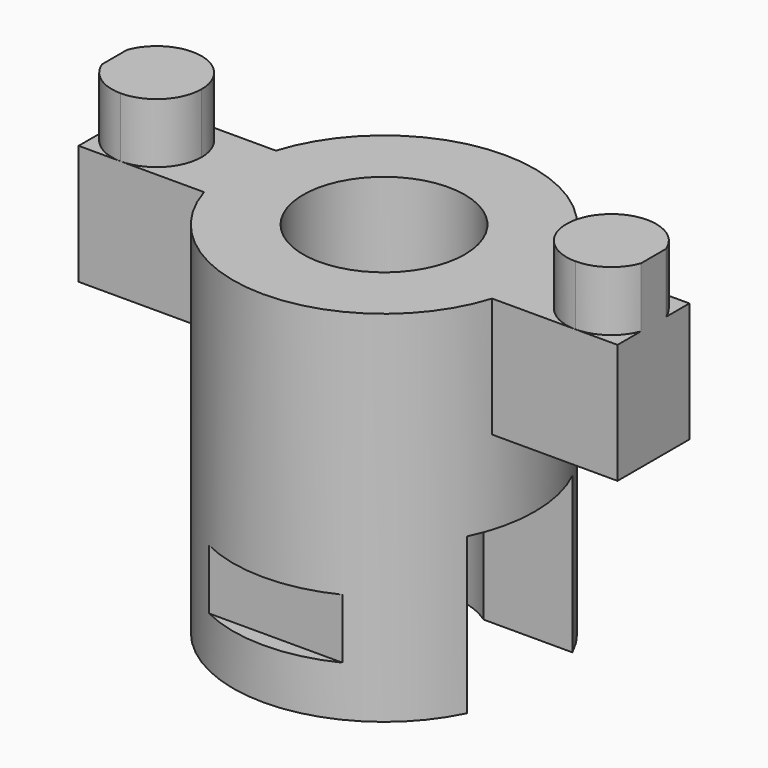
from build123d import *

# Parameters (mm, degrees)
F0_R      = 12.6
F0_R_2    = 6.75
F1_DEPTH  = 30
F2_W      = 11
F2_H      = 13
F3_DEPTH  = 15
F5_W      = 1.3
F5_H      = 5
F6_DEPTH  = 12.5
F7_W      = 1.5
F7_H      = 5
F8_DEPTH  = 12.5
F10_DEPTH = 10
F12_DEPTH = 5


with BuildPart() as f1:
    # F0 (on Top) → F1 (new body)
    with BuildSketch(Plane.XY):
        Circle(F0_R)
        Circle(F0_R_2, mode=Mode.SUBTRACT)
    extrude(amount=F1_DEPTH)


with BuildPart() as f3:
    # F2 (on Right) → F3 (new body, symmetric)
    with BuildSketch(Plane.YZ):
        with Locations((0, 6.5)):
            Rectangle(F2_W, F2_H)
    extrude(amount=F3_DEPTH, both=True)


with BuildPart() as f1_1:
    add(f1.part)

    # F4: cut F3
    add(f3.part, mode=Mode.SUBTRACT)

    # F5 (on Right) → F6 (cut, symmetric)
    with BuildSketch(Plane.YZ):
        with Locations((-11.95, 6.7)):
            Rectangle(F5_W, F5_H)
    extrude(amount=F6_DEPTH, both=True, mode=Mode.SUBTRACT)

    # F7 (on Right) → F8 (cut, symmetric)
    with BuildSketch(Plane.YZ):
        with Locations((11.85, 6.7)):
            Rectangle(F7_W, F7_H)
    extrude(amount=F8_DEPTH, both=True, mode=Mode.SUBTRACT)

    # F9 (on face) → F10 (join)
    with BuildSketch(Plane.XY.offset(30)):
        with BuildLine():
            Line((-12.0290273921, 3.75), (-22.5, 3.75))
            Line((-22.5, 3.75), (-22.5, -3.75))
            Line((-22.5, -3.75), (-12.0290273921, -3.75))
            ThreePointArc((-12.0290273921, -3.75), (-12.6, 0), (-12.0290273921, 3.75))
        make_face()
        with BuildLine():
            Line((22.5, 3.75), (12.0290273921, 3.75))
            ThreePointArc((12.0290273921, 3.75), (12.4564390004, 1.8966094563), (12.6, 0))
            ThreePointArc((12.6, 0), (12.4564390004, -1.8966094563), (12.0290273921, -3.75))
            Line((12.0290273921, -3.75), (22.5, -3.75))
            Line((22.5, -3.75), (22.5, 3.75))
        make_face()
    extrude(amount=-F10_DEPTH)

    # F11 (on face) → F12 (join)
    with BuildSketch(Plane.XY.offset(30)):
        with BuildLine():
            ThreePointArc((-18.984, -3.75), (-16.3323495706, -2.6516504294), (-15.234, 0))
            ThreePointArc((-15.234, 0), (-16.3323495706, 2.6516504294), (-18.984, 3.75))
            ThreePointArc((-18.984, 3.75), (-21.1255820463, 3.0783317461), (-22.5, 1.3039340474))
            Line((-22.5, 1.3039340474), (-22.5, -1.3039340474))
            ThreePointArc((-22.5, -1.3039340474), (-21.1255820463, -3.0783317461), (-18.984, -3.75))
        make_face()
        with BuildLine():
            ThreePointArc((22.5, 1.3048106807), (21.1255234866, 3.0785987115), (18.9843252301, 3.75))
            ThreePointArc((18.9843252301, 3.75), (15.2343252301, 0), (18.9843252301, -3.75))
            ThreePointArc((18.9843252301, -3.75), (21.1255234866, -3.0785987115), (22.5, -1.3048106807))
            Line((22.5, -1.3048106807), (22.5, 1.3048106807))
        make_face()
    extrude(amount=F12_DEPTH)


solid = f1_1.part
